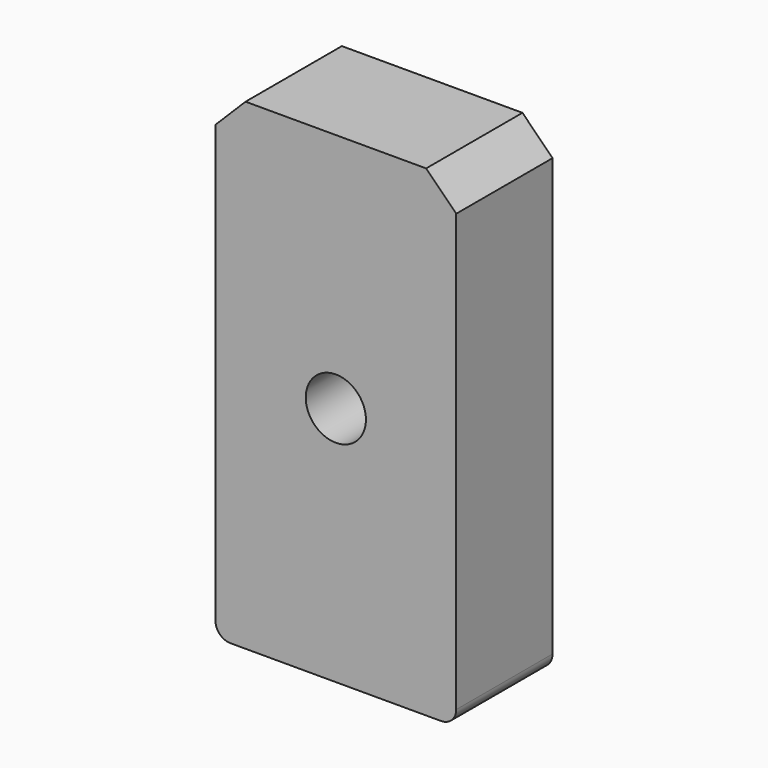
from build123d import *

# Parameters (mm, degrees)
F0_W     = 400
F0_H     = 800
F1_DEPTH = 200
F2_SIZE  = 50
F3_R     = 25
F4_R     = 50
F5_DEPTH = 200.001


with BuildPart() as f1:
    # F0 (on Front) → F1 (new body)
    with BuildSketch(Plane.XZ):
        Rectangle(F0_W, F0_H)
    extrude(amount=F1_DEPTH)

    # F2
    f2_edges = [f1.edges().sort_by_distance(p)[0] for p in [
        (200, -100, 400),
        (-200, -100, 400),
    ]]
    chamfer(f2_edges, length=F2_SIZE)

    # F3
    f3_edges = [f1.edges().sort_by_distance(p)[0] for p in [
        (-200, -100, -400),
        (200, -100, -400),
    ]]
    fillet(f3_edges, radius=F3_R)

    # F4 (on face) → F5 (cut, through all)
    with BuildSketch(Plane.XZ.offset(200)):
        Circle(F4_R)
    extrude(amount=-F5_DEPTH, mode=Mode.SUBTRACT)


solid = f1.part
